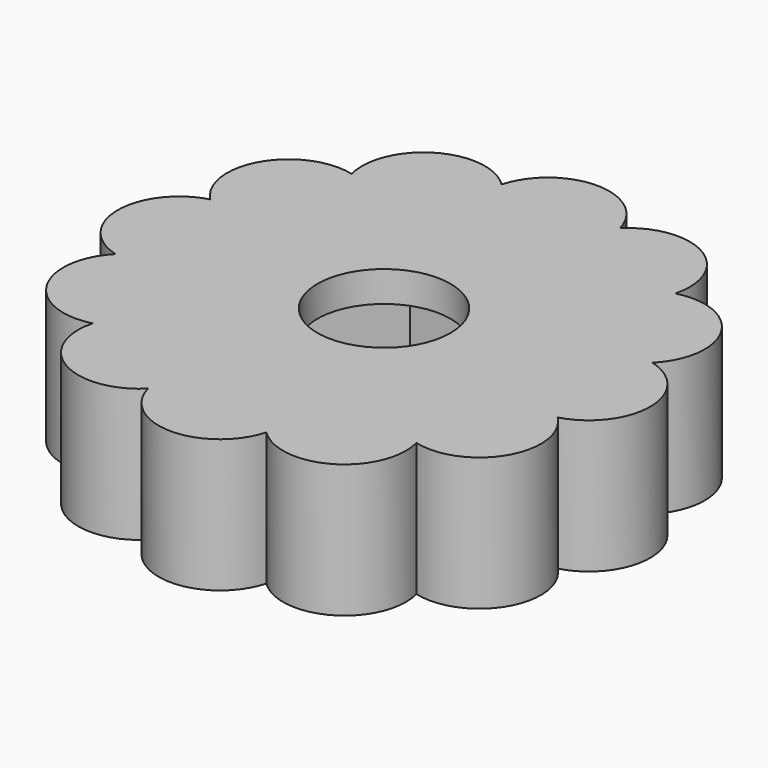
from build123d import *

# Parameters (mm, degrees)
F1_DEPTH = 6.5
F2_R     = 3.25
F3_DEPTH = 25
F5_DEPTH = 5


with BuildPart() as f1:
    # F0 (on Top) → F1 (new body)
    with BuildSketch(Plane.XY):
        with BuildLine():
            ThreePointArc((2.892627, 10.795431), (0, 13), (-2.892627, 10.795431))
            ThreePointArc((-2.892627, 10.795431), (-6.5, 11.25833), (-7.902804, 7.902804))
            ThreePointArc((-7.902804, 7.902804), (-11.25833, 6.5), (-10.795431, 2.892627))
            ThreePointArc((-10.795431, 2.892627), (-13, 0), (-10.795431, -2.892627))
            ThreePointArc((-10.795431, -2.892627), (-11.25833, -6.5), (-7.902804, -7.902804))
            ThreePointArc((-7.902804, -7.902804), (-6.5, -11.25833), (-2.892627, -10.795431))
            ThreePointArc((-2.892627, -10.795431), (0, -13), (2.892627, -10.795431))
            ThreePointArc((2.892627, -10.795431), (6.5, -11.25833), (7.902804, -7.902804))
            ThreePointArc((7.902804, -7.902804), (11.25833, -6.5), (10.795431, -2.892627))
            ThreePointArc((10.795431, -2.892627), (13, 0), (10.795431, 2.892627))
            ThreePointArc((10.795431, 2.892627), (11.25833, 6.5), (7.902804, 7.902804))
            ThreePointArc((7.902804, 7.902804), (6.5, 11.25833), (2.892627, 10.795431))
        make_face()
    extrude(amount=F1_DEPTH)

    # F2 (on face) → F3 (cut)
    with BuildSketch(Plane.XY.offset(6.5)):
        Circle(F2_R)
    extrude(amount=-F3_DEPTH, mode=Mode.SUBTRACT)

    # F4 (on Top) → F5 (cut)
    with BuildSketch(Plane.XY):
        Polygon((3.319764, 5.75), (-3.319764, 5.75), (-6.639528, 0), (-3.319764, -5.75), (3.319764, -5.75), (6.639528, 0), align=None)
    extrude(amount=F5_DEPTH, mode=Mode.SUBTRACT)


solid = f1.part
